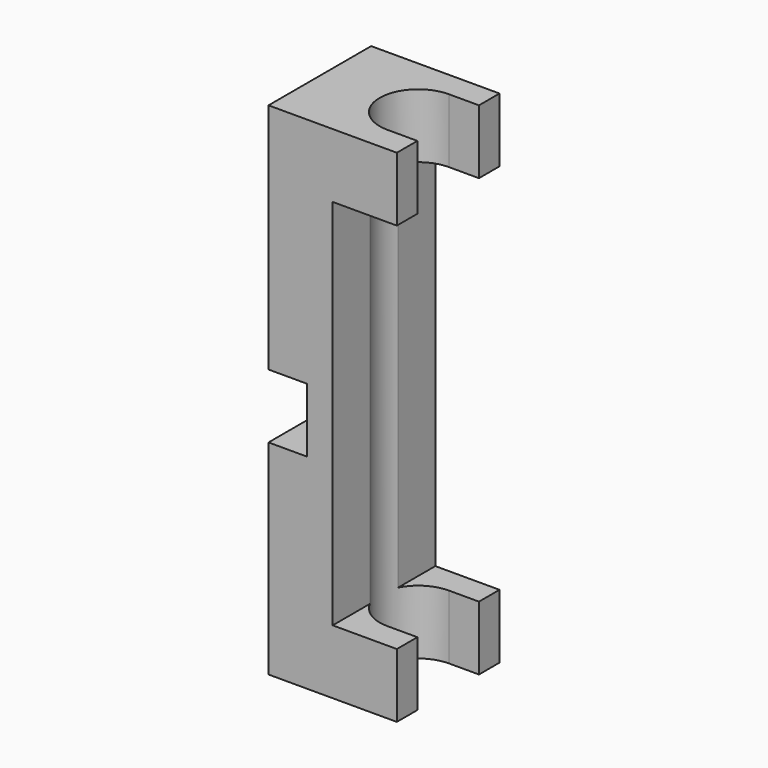
from build123d import *

# Parameters (mm, degrees)
F0_W     = 6.35
F0_H     = 6.35
F1_DEPTH = 12.7
F3_DEPTH = 49.594854
F4_W     = 3.81
F4_H     = 6.35
F5_DEPTH = 25.4


with BuildPart() as f1:
    # F0 (on Front) → F1 (new body)
    with BuildSketch(Plane.XZ):
        Polygon((-21.969653, 32.725027), (-21.969653, -16.868828), (-15.619653, -16.868828), (-15.619653, -10.518828), (-15.619653, 26.375027), (-15.619653, 32.725027), align=None)
        with Locations((-12.444653, -13.693828)):
            Rectangle(F0_W, F0_H)
        with Locations((-12.444653, 29.550027)):
            Rectangle(F0_W, F0_H)
    extrude(amount=F1_DEPTH)

    # F2 (on face) → F3 (cut, through all)
    with BuildSketch(Plane.XY.offset(32.725027)):
        with BuildLine():
            Line((-12.234837, -10.16), (-9.269653, -10.16))
            Line((-9.269653, -10.16), (-9.269653, -2.54))
            Line((-9.269653, -2.54), (-12.234837, -2.54))
            ThreePointArc((-12.234837, -2.54), (-16.044837, -6.35), (-12.234837, -10.16))
        make_face()
    extrude(amount=-F3_DEPTH, mode=Mode.SUBTRACT)

    # F4 (on face) → F5 (cut)
    with BuildSketch(Plane.XZ.offset(12.7)):
        with Locations((-20.064653, 6.530325)):
            Rectangle(F4_W, F4_H)
    extrude(amount=-F5_DEPTH, mode=Mode.SUBTRACT)


solid = f1.part
